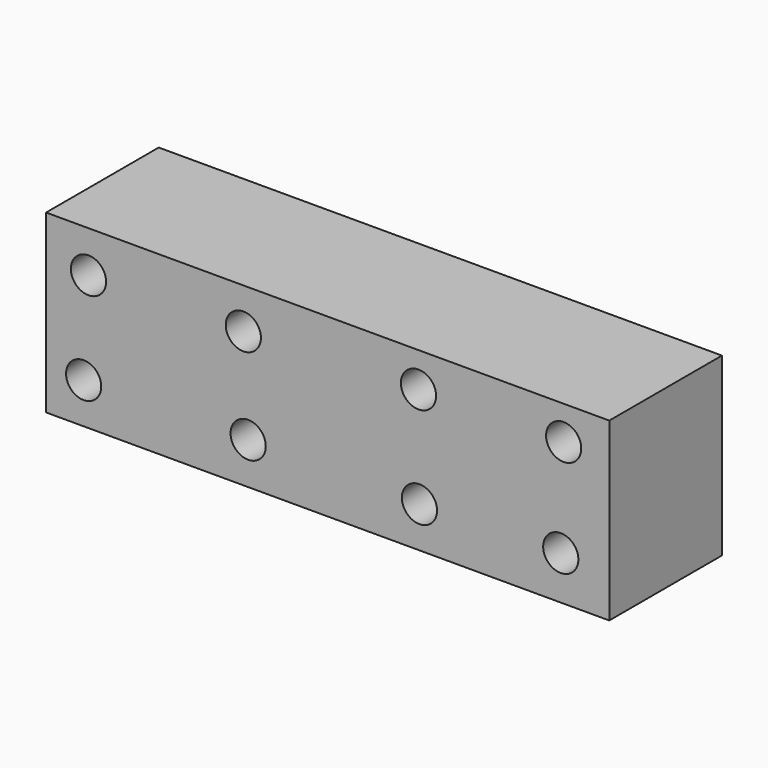
from build123d import *

# Parameters (mm, degrees)
F0_W     = 203.2
F0_H     = 63.5
F0_R     = 6.35
F1_DEPTH = 50.8


with BuildPart() as f1:
    # F0 (on Front) → F1 (new body)
    with BuildSketch(Plane.XZ):
        with Locations((-28.020166, 6.267211)):
            Rectangle(F0_W, F0_H)
        with Locations((-116.067566, -10.808384)):
            Circle(F0_R, mode=Mode.SUBTRACT)
        with Locations((-56.708891, -10.459215)):
            Circle(F0_R, mode=Mode.SUBTRACT)
        with Locations((5.093965, -10.808384)):
            Circle(F0_R, mode=Mode.SUBTRACT)
        with Locations((56.072593, -9.760878)):
            Circle(F0_R, mode=Mode.SUBTRACT)
        with Locations((-114.321724, 23.060977)):
            Circle(F0_R, mode=Mode.SUBTRACT)
        with Locations((-58.454733, 23.410145)):
            Circle(F0_R, mode=Mode.SUBTRACT)
        with Locations((4.744796, 25.505157)):
            Circle(F0_R, mode=Mode.SUBTRACT)
        with Locations((57.1201, 25.854327)):
            Circle(F0_R, mode=Mode.SUBTRACT)
    extrude(amount=-F1_DEPTH)


solid = f1.part
